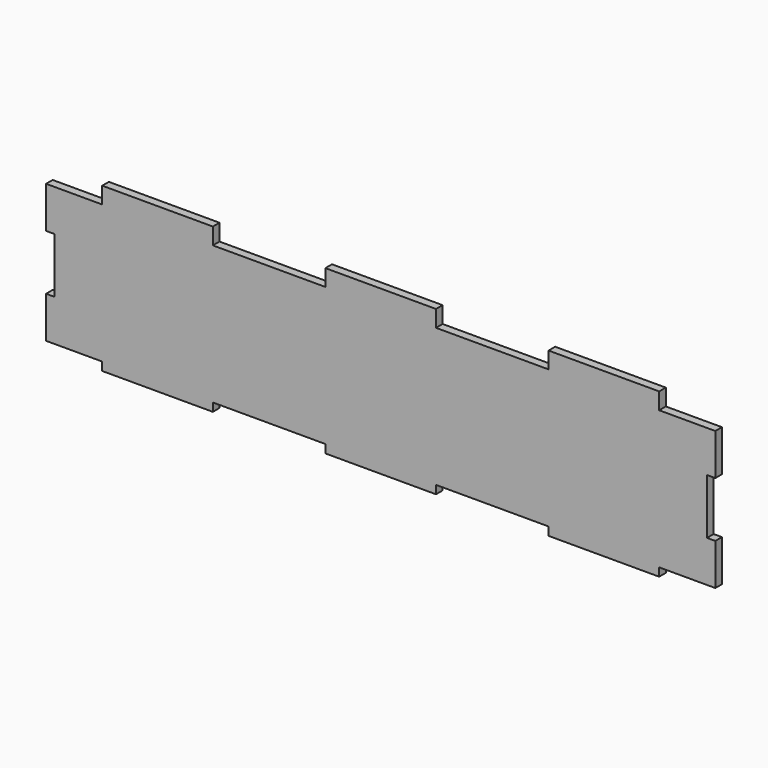
from build123d import *

# Parameters (mm, degrees)
F1_DEPTH = 3


with BuildPart() as f1:
    # F0 (on Front) → F1 (new body)
    with BuildSketch(Plane.XZ):
        Polygon((100.7, -25), (121, -25), (121, -10), (118, -10), (118, 10), (121, 10), (121, 25), (100.7, 25), (100.7, 28), (100.7, 31), (60.7, 31), (60.7, 28), (60.7, 25), (20, 25), (20, 28), (20, 31), (-20, 31), (-20, 28), (-20, 25), (-60.7, 25), (-60.7, 28), (-60.7, 31), (-100.7, 31), (-100.7, 28), (-100.7, 25), (-121, 25), (-121, 10), (-118, 10), (-118, -10), (-121, -10), (-121, -25), (-100.7, -25), (-100.7, -28), (-60.7, -28), (-60.7, -25), (-20, -25), (-20, -28), (20, -28), (20, -25), (60.7, -25), (60.7, -28), (100.7, -28), align=None)
    extrude(amount=F1_DEPTH)


solid = f1.part
